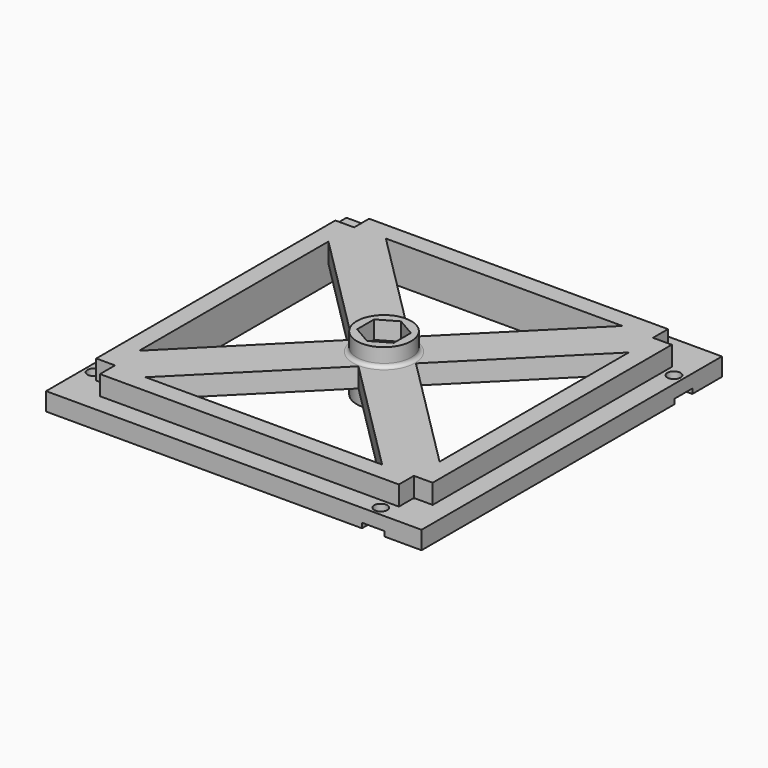
from build123d import *

# Parameters (mm, degrees)
SKETCH_W           = 100
SKETCH_H           = 100
SKETCH_W_2         = 80
SKETCH_H_2         = 80
PAD_DEPTH          = 4.8
SKETCH001_R        = 2.75
PAD001_DEPTH       = 5.2
SKETCH002_R        = 7.25
PAD002_DEPTH       = 4.8
SKETCH003_R        = 7.25
PAD003_DEPTH       = 4.8
POCKET001_DEPTH    = 1.3
SKETCH006_R        = 1.75
POCKET002_DEPTH    = 3.49
POLARPATTERN_COUNT = 4
FILLET_R           = 1


with BuildPart() as part:
    # Sketch → Pad (new body)
    with BuildSketch(Plane.XY):
        Rectangle(SKETCH_W, SKETCH_H)
        Rectangle(SKETCH_W_2, SKETCH_H_2, mode=Mode.SUBTRACT)
    extrude(amount=PAD_DEPTH)

    # Sketch001 (on Face10 of Pad) → Pad001 (join)
    with BuildSketch(Plane.XY.offset(4.8)):
        Polygon((-44.8, 39.8), (-44.8, -39.8), (-39.8, -39.8), (-39.8, -44.8), (39.8, -44.8), (39.8, -39.8), (44.8, -39.8), (44.8, 39.8), (39.8, 39.8), (39.8, 44.8), (-39.8, 44.8), (-39.8, 39.8), align=None)
        Circle(SKETCH001_R, mode=Mode.SUBTRACT)
        Polygon((-31.5, 40), (0, 8.5), (31.5, 40), align=None, mode=Mode.SUBTRACT)
        Polygon((-40, 31.5), (-8.5, 0), (-40, -31.5), align=None, mode=Mode.SUBTRACT)
        Polygon((8.5, 0), (40, 31.5), (40, -31.5), align=None, mode=Mode.SUBTRACT)
        Polygon((0, -8.5), (31.5, -40), (-31.5, -40), align=None, mode=Mode.SUBTRACT)
    extrude(amount=PAD001_DEPTH)

    # Sketch002 (on Face20 of Pad001) → Pad002 (join)
    with BuildSketch(Plane.XY.offset(10)):
        Circle(SKETCH002_R)
        Polygon((0, -5.658033), (4.9, -2.829016), (4.9, 2.829016), (0, 5.658033), (-4.9, 2.829016), (-4.9, -2.829016), align=None, mode=Mode.SUBTRACT)
    extrude(amount=PAD002_DEPTH)

    # Sketch003 (on Face23 of Pad002) → Pad003 (join)
    with BuildSketch(Plane(origin=(0, 0, 4.8), x_dir=(1, 0, 0), z_dir=(0, 0, -1))):
        Circle(SKETCH003_R)
        Polygon((0, -5.658033), (4.9, -2.829016), (4.9, 2.829016), (0, 5.658033), (-4.9, 2.829016), (-4.9, -2.829016), align=None, mode=Mode.SUBTRACT)
    extrude(amount=PAD003_DEPTH)

    # Sketch005 → Pocket001 (cut)
    with BuildSketch(Plane(origin=(0, 0, 0), x_dir=(1, 0, 0), z_dir=(0, 0, -1))):
        with BuildLine():
            ThreePointArc((34.15, 47.5), (37.15, 44.5), (40.15, 47.5))
            Line((40.15, 50), (40.15, 47.5))
            Line((34.15, 50), (40.15, 50))
            Line((34.15, 47.5), (34.15, 50))
        make_face()
    pocket001 = extrude(amount=-POCKET001_DEPTH, mode=Mode.SUBTRACT)

    # Sketch006 (on Face5 of Pocket001) → Pocket002 (cut)
    with BuildSketch(Plane.XY.offset(4.8)):
        with Locations((37.15, -47.5)):
            Circle(SKETCH006_R)
    pocket002 = extrude(amount=-POCKET002_DEPTH, mode=Mode.SUBTRACT)

    # PolarPattern: Pocket002, Pocket001 ×4 about axis
    polarpattern_axis = Axis((0, 0, 4.8), (0, 0, 1))
    for i in range(1, POLARPATTERN_COUNT):
        add(pocket002.rotate(polarpattern_axis, i * 360 / POLARPATTERN_COUNT), mode=Mode.SUBTRACT)
        add(pocket001.rotate(polarpattern_axis, i * 360 / POLARPATTERN_COUNT), mode=Mode.SUBTRACT)

    # Fillet
    fillet_edges = [part.edges().sort_by_distance(p)[0] for p in [
        (-7.25, 0, 10),
        (-7.25, 0, 4.8),
    ]]
    fillet(fillet_edges, radius=FILLET_R)


solid = part.part
